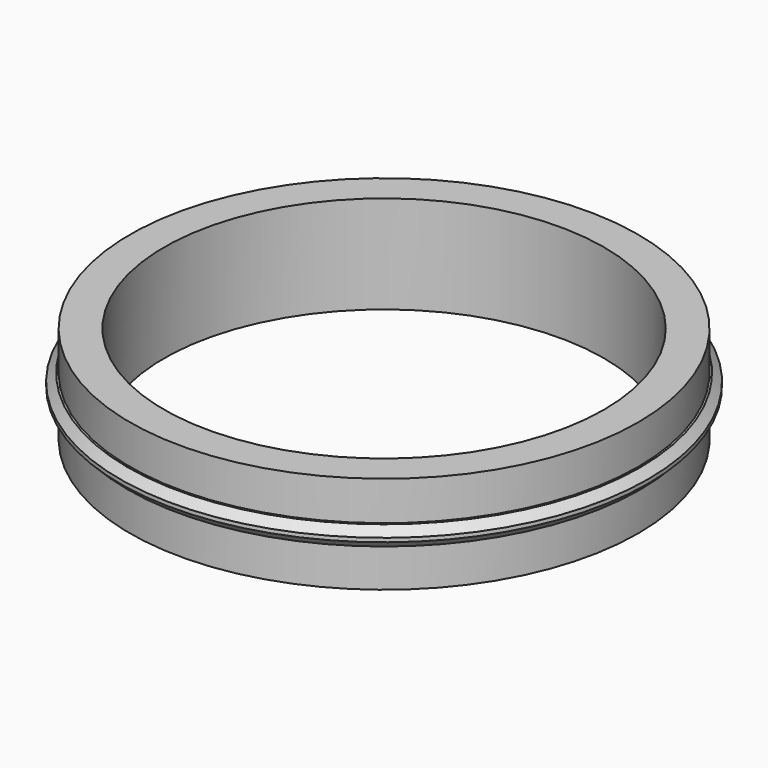
from build123d import *

# Parameters (mm, degrees)
F0_R     = 27
F0_R_2   = 26
F1_DEPTH = 1
F0_R_3   = 22.5
F2_DEPTH = 5
F3_SIZE  = 0.8


with BuildPart() as f1:
    # F0 (on Top) → F1 (new body, symmetric)
    with BuildSketch(Plane.XY):
        Circle(F0_R)
        Circle(F0_R_2, mode=Mode.SUBTRACT)
    extrude(amount=F1_DEPTH, both=True)

    # F0 (on Top) → F2 (join, symmetric)
    with BuildSketch(Plane.XY):
        Circle(F0_R_2)
        Circle(F0_R_3, mode=Mode.SUBTRACT)
    extrude(amount=F2_DEPTH, both=True)

    # F3
    f3_edges = [f1.edges().sort_by_distance(p)[0] for p in [
        (-27, 0, 1),
        (-27, 0, -1),
    ]]
    chamfer(f3_edges, length=F3_SIZE)


solid = f1.part
